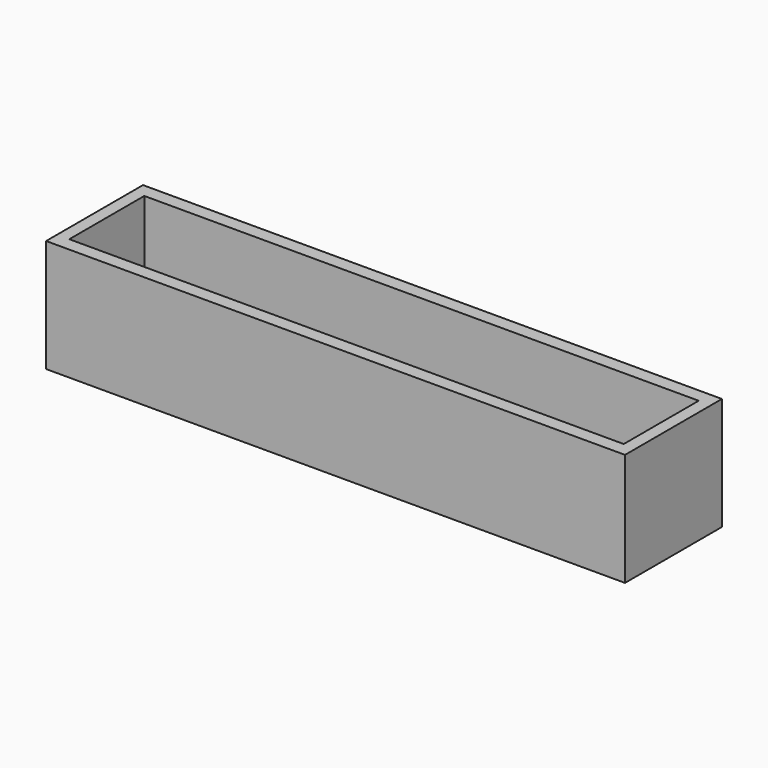
from build123d import *

# Parameters (mm, degrees)
F1_DEPTH = 25.4
F2_W     = 130.452856
F2_H     = 26.967836
F3_DEPTH = 2.54


with BuildPart() as f1:
    # F0 (on Top) → F1 (new body)
    with BuildSketch(Plane.XY):
        Polygon((-65.226428, 13.646376), (-65.226428, -13.646376), (-62.464662, -10.559695), (-62.464662, 10.559695), align=None)
        Polygon((-62.464662, -10.559695), (-65.226428, -13.646376), (65.226428, -13.646376), (62.464662, -10.559695), align=None)
        Polygon((65.226428, 13.646376), (-65.226428, 13.646376), (-62.464662, 10.559695), (62.464662, 10.559695), align=None)
        Polygon((62.464662, -10.559695), (65.226428, -13.646376), (65.226428, 13.646376), (62.464662, 10.559695), align=None)
    extrude(amount=F1_DEPTH)

    # F2 (on Top) → F3 (join)
    with BuildSketch(Plane.XY):
        Rectangle(F2_W, F2_H)
    extrude(amount=F3_DEPTH)


solid = f1.part
